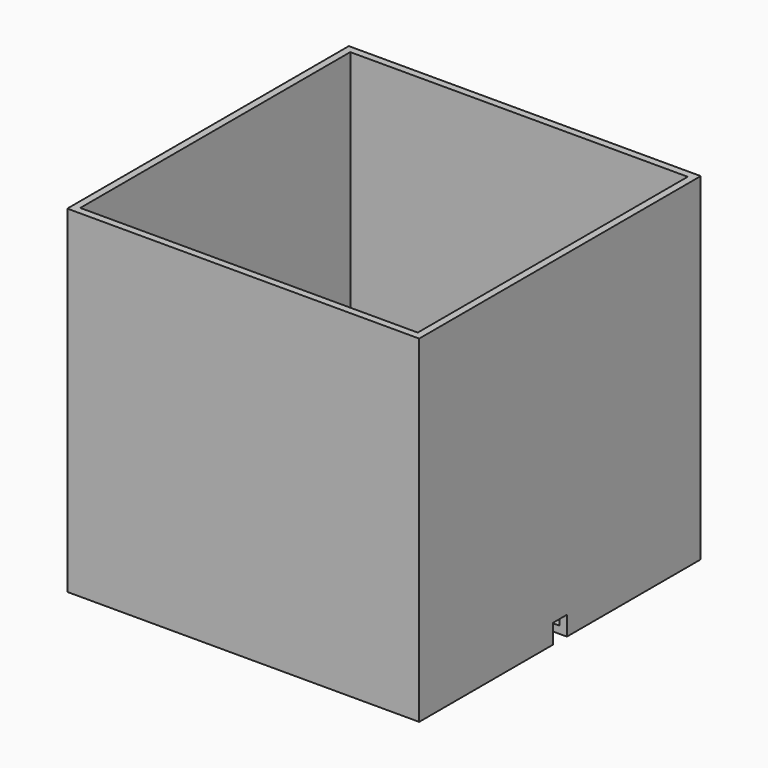
from build123d import *

# Parameters (mm, degrees)
F0_W     = 73
F0_H     = 73
F1_DEPTH = 70
F2_T     = -1.5
F4_DEPTH = 4


with BuildPart() as f1:
    # F0 (on Top) → F1 (new body)
    with BuildSketch(Plane.XY):
        Rectangle(F0_W, F0_H)
    extrude(amount=F1_DEPTH)

    # F2
    f2_openings = [f1.faces().sort_by_distance(p)[0] for p in [
        (0, 0, 70),
    ]]
    offset(amount=F2_T, openings=f2_openings)

    # F3 (on face) → F4 (cut)
    with BuildSketch(Plane(origin=(0, 0, 0), x_dir=(1, 0, 0), z_dir=(0, 0, -1))):
        with BuildLine():
            Line((1.7349351573, -1.8), (36.5, -1.8))
            Line((36.5, -1.8), (36.5, 1.8))
            Line((36.5, 1.8), (1.7349351573, 1.8))
            ThreePointArc((1.7349351573, 1.8), (2.3007974588, 0.9779218033), (2.5, 0))
            ThreePointArc((2.5, 0), (2.3007974588, -0.9779218033), (1.7349351573, -1.8))
        make_face()
        with BuildLine():
            ThreePointArc((-1.7349351573, -1.8), (0, -2.5), (1.7349351573, -1.8))
            Line((1.7349351573, -1.8), (-1.7349351573, -1.8))
        make_face()
        with BuildLine():
            Line((-1.7349351573, -1.8), (1.7349351573, -1.8))
            ThreePointArc((1.7349351573, -1.8), (2.3007974588, -0.9779218033), (2.5, 0))
            ThreePointArc((2.5, 0), (2.3007974588, 0.9779218033), (1.7349351573, 1.8))
            Line((1.7349351573, 1.8), (-1.7349351573, 1.8))
            ThreePointArc((-1.7349351573, 1.8), (-2.5, 0), (-1.7349351573, -1.8))
        make_face()
        with BuildLine():
            Line((-36.5, -1.8), (-1.7349351573, -1.8))
            ThreePointArc((-1.7349351573, -1.8), (-2.5, 0), (-1.7349351573, 1.8))
            Line((-1.7349351573, 1.8), (-36.5, 1.8))
            Line((-36.5, 1.8), (-36.5, -1.8))
        make_face()
        with BuildLine():
            Line((-1.7349351573, 1.8), (1.7349351573, 1.8))
            ThreePointArc((1.7349351573, 1.8), (0, 2.5), (-1.7349351573, 1.8))
        make_face()
    extrude(amount=-F4_DEPTH, mode=Mode.SUBTRACT)


solid = f1.part
